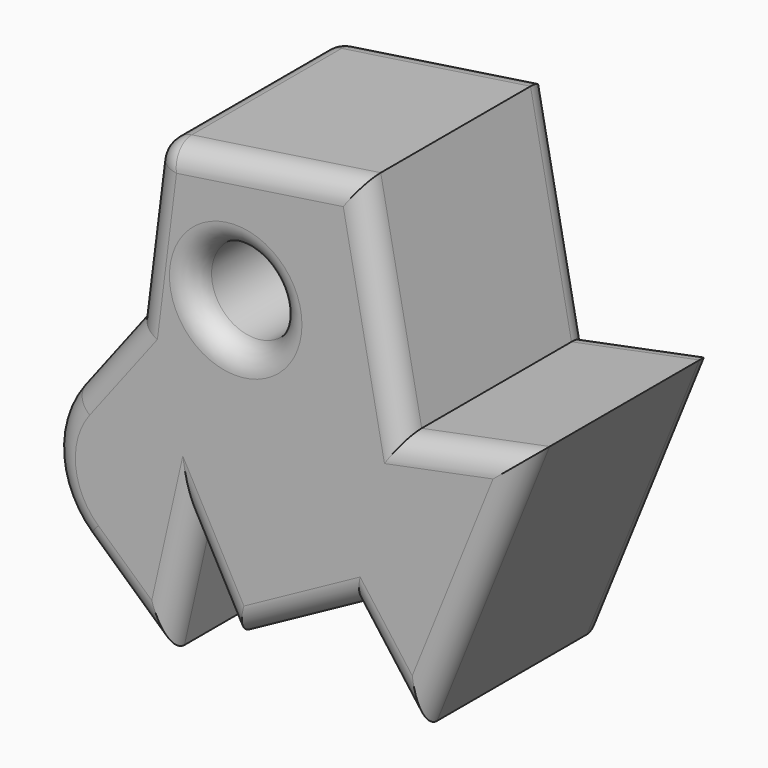
from build123d import *

# Parameters (mm, degrees)
F0_R     = 9.1559693167
F1_DEPTH = 50
F2_R     = 20
F3_R     = 5
F4_R     = 5
F5_R     = 5


with BuildPart() as f1:
    # F0 (on Front) → F1 (new body)
    with BuildSketch(Plane.XZ):
        Polygon((-26.2572392821, 58.8964447379), (-30.6334458292, 23.8867942244), (-55.4319471121, -8.5700713098), (-24.0691360086, -37.0154157281), (-18.469100818, -12.2761549428), (-9.3532412677, -28.9885639891), (16.0460937768, -15.1343811303), (29.9040805548, -33.7332598865), (53.9732128382, 25.7102139294), (26.6219247133, 20.239956677), (17.8695097566, 65.4607564211), align=None)
        with Locations((-9.1187059879, 34.7417481244)):
            Circle(F0_R, mode=Mode.SUBTRACT)
    extrude(amount=F1_DEPTH)

    # F2
    f2_edges = [f1.edges().sort_by_distance(p)[0] for p in [
        (-55.431947, -25, -8.570071),
    ]]
    fillet(f2_edges, radius=F2_R)

    # F3
    f3_edges = [f1.edges().sort_by_distance(p)[0] for p in [
        (-26.257239, -25, 58.896445),
    ]]
    fillet(f3_edges, radius=F3_R)

    # F4
    f4_edges = [f1.edges().sort_by_distance(p)[0] for p in [
        (-37.452482, -50, 14.961878),
        (-48.296803, -50, -7.920016),
        (-2.31645, -50, 62.457885),
        (22.245717, -50, 42.850357),
        (40.297569, -50, 22.975085),
        (-28.68077, -50, 39.508202),
        (-25.343225, -50, 58.003503),
        (-32.942365, -50, -28.967603),
        (-21.269118, -50, -24.645785),
        (41.938647, -50, -4.011523),
        (-13.911171, -50, -20.632359),
        (22.975087, -50, -24.433821),
        (3.346426, -50, -22.061473),
        (-18.274675, -50, 34.741748),
    ]]
    fillet(f4_edges, radius=F4_R)

    # F5
    f5_edges = [f1.edges().sort_by_distance(p)[0] for p in [
        (22.245717, 0, 42.850357),
        (-2.31645, 0, 62.457885),
        (-25.343225, 0, 58.003503),
        (-28.68077, 0, 39.508202),
        (-37.452482, 0, 14.961878),
        (-48.296803, 0, -7.920016),
        (-32.942365, 0, -28.967603),
        (40.297569, 0, 22.975085),
        (-21.269118, 0, -24.645785),
        (41.938647, 0, -4.011523),
        (-13.911171, 0, -20.632359),
        (22.975087, 0, -24.433821),
        (3.346426, 0, -22.061473),
        (-18.274675, 0, 34.741748),
    ]]
    fillet(f5_edges, radius=F5_R)


solid = f1.part
